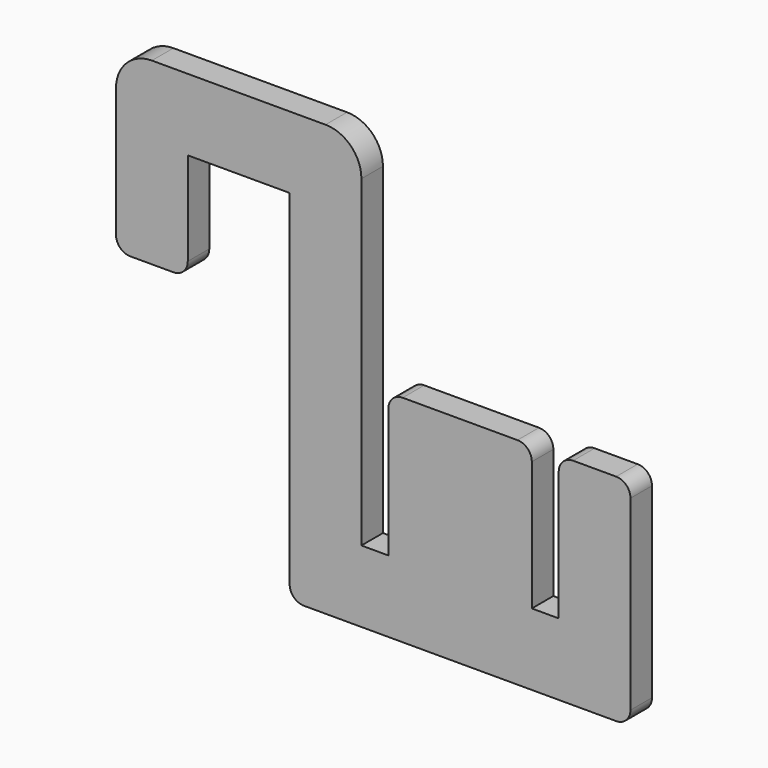
from build123d import *

# Parameters (mm, degrees)
F1_DEPTH = 4.7625


with BuildPart() as f1:
    # F0 (on Front) → F1 (new body)
    with BuildSketch(Plane.XZ):
        with BuildLine():
            Line((-57.785, 0), (-2.54, 0))
            ThreePointArc((-2.54, 0), (-0.743949, 0.743949), (0, 2.54))
            Line((0, 2.54), (0, 35.56))
            ThreePointArc((0, 35.56), (-0.743949, 37.356051), (-2.54, 38.1))
            Line((-2.54, 38.1), (-10.16, 38.1))
            ThreePointArc((-10.16, 38.1), (-11.956051, 37.356051), (-12.7, 35.56))
            Line((-12.7, 35.56), (-12.7, 12.7))
            Line((-12.7, 12.7), (-17.4625, 12.7))
            Line((-17.4625, 12.7), (-17.4625, 35.56))
            ThreePointArc((-17.4625, 35.56), (-18.206449, 37.356051), (-20.0025, 38.1))
            Line((-20.0025, 38.1), (-40.3225, 38.1))
            ThreePointArc((-40.3225, 38.1), (-42.118551, 37.356051), (-42.8625, 35.56))
            Line((-42.8625, 35.56), (-42.8625, 12.7))
            Line((-42.8625, 12.7), (-47.625, 12.7))
            Line((-47.625, 12.7), (-47.625, 63.5))
            Line((-47.625, 63.5), (-47.625, 69.85))
            ThreePointArc((-47.625, 69.85), (-49.484872, 74.340128), (-53.975, 76.2))
            Line((-53.975, 76.2), (-78.359, 76.2))
            Line((-78.359, 76.2), (-84.709, 76.2))
            ThreePointArc((-84.709, 76.2), (-89.199128, 74.340128), (-91.059, 69.85))
            Line((-91.059, 69.85), (-91.059, 63.5))
            Line((-91.059, 63.5), (-91.059, 46.99))
            ThreePointArc((-91.059, 46.99), (-90.315051, 45.193949), (-88.519, 44.45))
            Line((-88.519, 44.45), (-80.899, 44.45))
            ThreePointArc((-80.899, 44.45), (-79.102949, 45.193949), (-78.359, 46.99))
            Line((-78.359, 46.99), (-78.359, 63.5))
            Line((-78.359, 63.5), (-60.325, 63.5))
            Line((-60.325, 63.5), (-60.325, 2.54))
            ThreePointArc((-60.325, 2.54), (-59.581051, 0.743949), (-57.785, 0))
        make_face()
    extrude(amount=F1_DEPTH)


solid = f1.part
